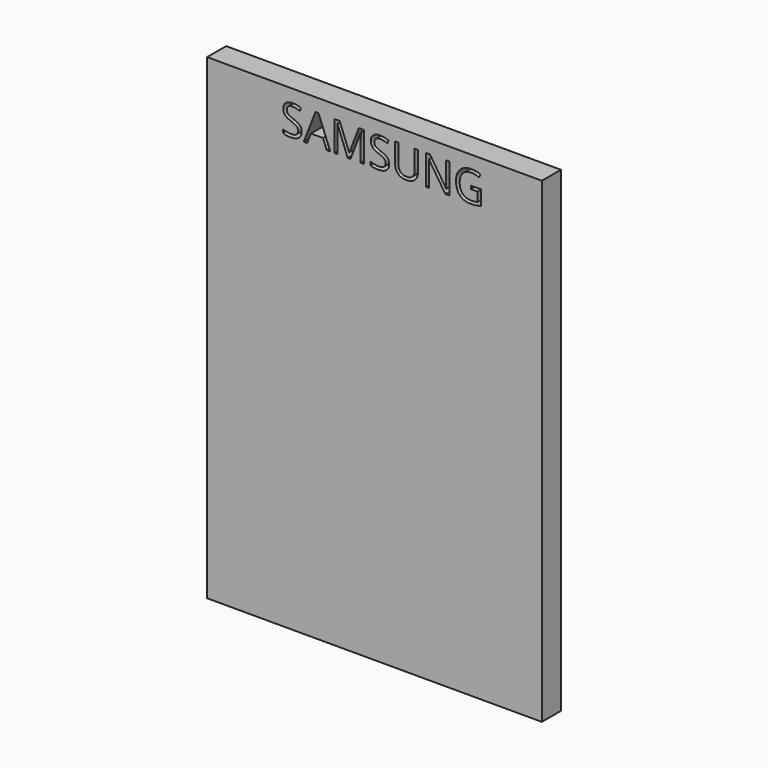
from build123d import *

# Parameters (mm, degrees)
F0_W     = 71.3880112225
F0_H     = 101.6
F1_DEPTH = 5.08


with BuildPart() as f1:
    # F0 (on Front) → F1 (new body)
    with BuildSketch(Plane.XZ):
        with Locations((0.1895986497, 0)):
            Rectangle(F0_W, F0_H)
        with BuildLine():
            add(Edge.make_bspline(
                [(-15.7056208765, 44.3836767437), (-15.3279076541, 43.9723890126), (-15.3279076541, 43.3176860938)],
                knots=[0, 0, 0, 1, 1, 1], degree=2))
            add(Edge.make_bspline(
                [(-15.3279076541, 43.3176860938), (-15.3279076541, 42.4741265637), (-15.9399429681, 42.0012855668)],
                knots=[0, 0, 0, 1, 1, 1], degree=2))
            add(Edge.make_bspline(
                [(-15.9399429681, 42.0012855668), (-16.5519782822, 41.5284445698), (-17.6011816778, 41.5284445698)],
                knots=[0, 0, 0, 1, 1, 1], degree=2))
            add(Edge.make_bspline(
                [(-17.6011816778, 41.5284445698), (-18.7371192207, 41.5284445698), (-19.3498540037, 41.8222215206)],
                knots=[0, 0, 0, 1, 1, 1], degree=2))
            Line((-19.3498540037, 41.8222215206), (-19.3498540037, 42.5384777053))
            add(Edge.make_bspline(
                [(-19.3498540037, 42.5384777053), (-18.955353527, 42.3734030377), (-18.4923050951, 42.2768763254)],
                knots=[0, 0, 0, 1, 1, 1], degree=2))
            add(Edge.make_bspline(
                [(-18.4923050951, 42.2768763254), (-18.0292566632, 42.180349613), (-17.5746018584, 42.180349613)],
                knots=[0, 0, 0, 1, 1, 1], degree=2))
            add(Edge.make_bspline(
                [(-17.5746018584, 42.180349613), (-16.8317658544, 42.180349613), (-16.4554515698, 42.4622355919)],
                knots=[0, 0, 0, 1, 1, 1], degree=2))
            add(Edge.make_bspline(
                [(-16.4554515698, 42.4622355919), (-16.0791372853, 42.7441215709), (-16.0791372853, 43.2477392007)],
                knots=[0, 0, 0, 1, 1, 1], degree=2))
            add(Edge.make_bspline(
                [(-16.0791372853, 43.2477392007), (-16.0791372853, 43.5792874737), (-16.212735851, 43.7912265596)],
                knots=[0, 0, 0, 1, 1, 1], degree=2))
            add(Edge.make_bspline(
                [(-16.212735851, 43.7912265596), (-16.3463344167, 44.0031656455), (-16.6589970286, 44.1829291606)],
                knots=[0, 0, 0, 1, 1, 1], degree=2))
            add(Edge.make_bspline(
                [(-16.6589970286, 44.1829291606), (-16.9716596405, 44.3626926758), (-17.609575305, 44.5893206092)],
                knots=[0, 0, 0, 1, 1, 1], degree=2))
            add(Edge.make_bspline(
                [(-17.609575305, 44.5893206092), (-18.5006987223, 44.9082784415), (-18.8833082272, 45.3454465229)],
                knots=[0, 0, 0, 1, 1, 1], degree=2))
            add(Edge.make_bspline(
                [(-18.8833082272, 45.3454465229), (-19.2659177321, 45.7826146044), (-19.2659177321, 46.4862803484)],
                knots=[0, 0, 0, 1, 1, 1], degree=2))
            add(Edge.make_bspline(
                [(-19.2659177321, 46.4862803484), (-19.2659177321, 47.2249195389), (-18.7112388703, 47.6620876204)],
                knots=[0, 0, 0, 1, 1, 1], degree=2))
            add(Edge.make_bspline(
                [(-18.7112388703, 47.6620876204), (-18.1565600085, 48.0992557019), (-17.2416546476, 48.0992557019)],
                knots=[0, 0, 0, 1, 1, 1], degree=2))
            add(Edge.make_bspline(
                [(-17.2416546476, 48.0992557019), (-16.2889779644, 48.0992557019), (-15.488785508, 47.7495212367)],
                knots=[0, 0, 0, 1, 1, 1], degree=2))
            Line((-15.488785508, 47.7495212367), (-15.7210091929, 47.103211945))
            add(Edge.make_bspline(
                [(-15.7210091929, 47.103211945), (-16.5128080221, 47.434760218), (-17.2598408398, 47.434760218)],
                knots=[0, 0, 0, 1, 1, 1], degree=2))
            add(Edge.make_bspline(
                [(-17.2598408398, 47.434760218), (-17.850192617, 47.434760218), (-18.1824403589, 47.1815524652)],
                knots=[0, 0, 0, 1, 1, 1], degree=2))
            add(Edge.make_bspline(
                [(-18.1824403589, 47.1815524652), (-18.5146881009, 46.9283447124), (-18.5146881009, 46.4778867212)],
                knots=[0, 0, 0, 1, 1, 1], degree=2))
            add(Edge.make_bspline(
                [(-18.5146881009, 46.4778867212), (-18.5146881009, 46.1463384482), (-18.3922810381, 45.9336998934)],
                knots=[0, 0, 0, 1, 1, 1], degree=2))
            add(Edge.make_bspline(
                [(-18.3922810381, 45.9336998934), (-18.2698739752, 45.7210613386), (-17.9788949002, 45.5440956992)],
                knots=[0, 0, 0, 1, 1, 1], degree=2))
            add(Edge.make_bspline(
                [(-17.9788949002, 45.5440956992), (-17.6879158252, 45.3671300598), (-17.0891704208, 45.1530925671)],
                knots=[0, 0, 0, 1, 1, 1], degree=2))
            add(Edge.make_bspline(
                [(-17.0891704208, 45.1530925671), (-16.0833340989, 44.7949644747), (-15.7056208765, 44.3836767437)],
                knots=[0, 0, 0, 1, 1, 1], degree=2))
        make_face(mode=Mode.SUBTRACT)
        Polygon((-9.2327353947, 41.6165776551), (-10.0021512181, 41.6165776551), (-10.7981468609, 43.6492343668), (-13.359602084, 43.6492343668), (-14.1458051617, 41.6165776551), (-14.8984337308, 41.6165776551), (-12.3719519543, 48.0349045603), (-11.7466267305, 48.0349045603), align=None, mode=Mode.SUBTRACT)
        with BuildLine():
            Line((-4.9268046593, 41.6165776551), (-5.5255500637, 41.6165776551))
            Line((-5.5255500637, 41.6165776551), (-7.6939037479, 47.2822759912))
            Line((-7.6939037479, 47.2822759912), (-7.7288771944, 47.2822759912))
            add(Edge.make_bspline(
                [(-7.7288771944, 47.2822759912), (-7.6673239285, 46.6093868801), (-7.6673239285, 45.6818910785)],
                knots=[0, 0, 0, 1, 1, 1], degree=2))
            Line((-7.6673239285, 45.6818910785), (-7.6673239285, 41.6165776551))
            Line((-7.6673239285, 41.6165776551), (-8.3542024182, 41.6165776551))
            Line((-8.3542024182, 41.6165776551), (-8.3542024182, 48.0083247409))
            Line((-8.3542024182, 48.0083247409), (-7.2350521295, 48.0083247409))
            Line((-7.2350521295, 48.0083247409), (-5.210789045, 42.7357279437))
            Line((-5.210789045, 42.7357279437), (-5.1758155985, 42.7357279437))
            Line((-5.1758155985, 42.7357279437), (-3.1347652596, 48.0083247409))
            Line((-3.1347652596, 48.0083247409), (-2.0240085982, 48.0083247409))
            Line((-2.0240085982, 48.0083247409), (-2.0240085982, 41.6165776551))
            Line((-2.0240085982, 41.6165776551), (-2.7668446023, 41.6165776551))
            Line((-2.7668446023, 41.6165776551), (-2.7668446023, 45.7350507172))
            add(Edge.make_bspline(
                [(-2.7668446023, 45.7350507172), (-2.7668446023, 46.4429132747), (-2.7052913364, 47.273882364)],
                knots=[0, 0, 0, 1, 1, 1], degree=2))
            Line((-2.7052913364, 47.273882364), (-2.7402647829, 47.273882364))
            Line((-2.7402647829, 47.273882364), (-4.9268046593, 41.6165776551))
        make_face(mode=Mode.SUBTRACT)
        with BuildLine():
            add(Edge.make_bspline(
                [(2.957609124, 44.3836767437), (3.3353223464, 43.9723890126), (3.3353223464, 43.3176860938)],
                knots=[0, 0, 0, 1, 1, 1], degree=2))
            add(Edge.make_bspline(
                [(3.3353223464, 43.3176860938), (3.3353223464, 42.4741265637), (2.7232870323, 42.0012855668)],
                knots=[0, 0, 0, 1, 1, 1], degree=2))
            add(Edge.make_bspline(
                [(2.7232870323, 42.0012855668), (2.1112517182, 41.5284445698), (1.0620483226, 41.5284445698)],
                knots=[0, 0, 0, 1, 1, 1], degree=2))
            add(Edge.make_bspline(
                [(1.0620483226, 41.5284445698), (-0.0738892203, 41.5284445698), (-0.6866240033, 41.8222215206)],
                knots=[0, 0, 0, 1, 1, 1], degree=2))
            Line((-0.6866240033, 41.8222215206), (-0.6866240033, 42.5384777053))
            add(Edge.make_bspline(
                [(-0.6866240033, 42.5384777053), (-0.2921235266, 42.3734030377), (0.1709249053, 42.2768763254)],
                knots=[0, 0, 0, 1, 1, 1], degree=2))
            add(Edge.make_bspline(
                [(0.1709249053, 42.2768763254), (0.6339733372, 42.180349613), (1.088628142, 42.180349613)],
                knots=[0, 0, 0, 1, 1, 1], degree=2))
            add(Edge.make_bspline(
                [(1.088628142, 42.180349613), (1.8314641461, 42.180349613), (2.2077784306, 42.4622355919)],
                knots=[0, 0, 0, 1, 1, 1], degree=2))
            add(Edge.make_bspline(
                [(2.2077784306, 42.4622355919), (2.5840927151, 42.7441215709), (2.5840927151, 43.2477392007)],
                knots=[0, 0, 0, 1, 1, 1], degree=2))
            add(Edge.make_bspline(
                [(2.5840927151, 43.2477392007), (2.5840927151, 43.5792874737), (2.4504941494, 43.7912265596)],
                knots=[0, 0, 0, 1, 1, 1], degree=2))
            add(Edge.make_bspline(
                [(2.4504941494, 43.7912265596), (2.3168955837, 44.0031656455), (2.0042329719, 44.1829291606)],
                knots=[0, 0, 0, 1, 1, 1], degree=2))
            add(Edge.make_bspline(
                [(2.0042329719, 44.1829291606), (1.69157036, 44.3626926758), (1.0536546955, 44.5893206092)],
                knots=[0, 0, 0, 1, 1, 1], degree=2))
            add(Edge.make_bspline(
                [(1.0536546955, 44.5893206092), (0.1625312782, 44.9082784415), (-0.2200782268, 45.3454465229)],
                knots=[0, 0, 0, 1, 1, 1], degree=2))
            add(Edge.make_bspline(
                [(-0.2200782268, 45.3454465229), (-0.6026877317, 45.7826146044), (-0.6026877317, 46.4862803484)],
                knots=[0, 0, 0, 1, 1, 1], degree=2))
            add(Edge.make_bspline(
                [(-0.6026877317, 46.4862803484), (-0.6026877317, 47.2249195389), (-0.0480088699, 47.6620876204)],
                knots=[0, 0, 0, 1, 1, 1], degree=2))
            add(Edge.make_bspline(
                [(-0.0480088699, 47.6620876204), (0.5066699919, 48.0992557019), (1.4215753529, 48.0992557019)],
                knots=[0, 0, 0, 1, 1, 1], degree=2))
            add(Edge.make_bspline(
                [(1.4215753529, 48.0992557019), (2.374252036, 48.0992557019), (3.1744444924, 47.7495212367)],
                knots=[0, 0, 0, 1, 1, 1], degree=2))
            Line((3.1744444924, 47.7495212367), (2.9422208075, 47.103211945))
            add(Edge.make_bspline(
                [(2.9422208075, 47.103211945), (2.1504219783, 47.434760218), (1.4033891607, 47.434760218)],
                knots=[0, 0, 0, 1, 1, 1], degree=2))
            add(Edge.make_bspline(
                [(1.4033891607, 47.434760218), (0.8130373834, 47.434760218), (0.4807896415, 47.1815524652)],
                knots=[0, 0, 0, 1, 1, 1], degree=2))
            add(Edge.make_bspline(
                [(0.4807896415, 47.1815524652), (0.1485418996, 46.9283447124), (0.1485418996, 46.4778867212)],
                knots=[0, 0, 0, 1, 1, 1], degree=2))
            add(Edge.make_bspline(
                [(0.1485418996, 46.4778867212), (0.1485418996, 46.1463384482), (0.2709489624, 45.9336998934)],
                knots=[0, 0, 0, 1, 1, 1], degree=2))
            add(Edge.make_bspline(
                [(0.2709489624, 45.9336998934), (0.3933560252, 45.7210613386), (0.6843351002, 45.5440956992)],
                knots=[0, 0, 0, 1, 1, 1], degree=2))
            add(Edge.make_bspline(
                [(0.6843351002, 45.5440956992), (0.9753141753, 45.3671300598), (1.5740595797, 45.1530925671)],
                knots=[0, 0, 0, 1, 1, 1], degree=2))
            add(Edge.make_bspline(
                [(1.5740595797, 45.1530925671), (2.5798959016, 44.7949644747), (2.957609124, 44.3836767437)],
                knots=[0, 0, 0, 1, 1, 1], degree=2))
        make_face(mode=Mode.SUBTRACT)
        with BuildLine():
            Line((8.7268288618, 48.0083247409), (9.4696648658, 48.0083247409))
            Line((9.4696648658, 48.0083247409), (9.4696648658, 43.8730644245))
            add(Edge.make_bspline(
                [(9.4696648658, 43.8730644245), (9.4696648658, 42.7790950174), (8.8093661955, 42.1537697936)],
                knots=[0, 0, 0, 1, 1, 1], degree=2))
            add(Edge.make_bspline(
                [(8.8093661955, 42.1537697936), (8.1490675253, 41.5284445698), (6.9949437901, 41.5284445698)],
                knots=[0, 0, 0, 1, 1, 1], degree=2))
            add(Edge.make_bspline(
                [(6.9949437901, 41.5284445698), (5.840820055, 41.5284445698), (5.2091996109, 42.1586660761)],
                knots=[0, 0, 0, 1, 1, 1], degree=2))
            add(Edge.make_bspline(
                [(5.2091996109, 42.1586660761), (4.5775791667, 42.7888875824), (4.5775791667, 43.8898516788)],
                knots=[0, 0, 0, 1, 1, 1], degree=2))
            Line((4.5775791667, 43.8898516788), (4.5775791667, 48.0083247409))
            Line((4.5775791667, 48.0083247409), (5.3218141087, 48.0083247409))
            Line((5.3218141087, 48.0083247409), (5.3218141087, 43.838090978))
            add(Edge.make_bspline(
                [(5.3218141087, 43.838090978), (5.3218141087, 43.0378985216), (5.7589821901, 42.6091240673)],
                knots=[0, 0, 0, 1, 1, 1], degree=2))
            add(Edge.make_bspline(
                [(5.7589821901, 42.6091240673), (6.1961502716, 42.180349613), (7.0439066153, 42.180349613)],
                knots=[0, 0, 0, 1, 1, 1], degree=2))
            add(Edge.make_bspline(
                [(7.0439066153, 42.180349613), (7.8524926988, 42.180349613), (8.2896607803, 42.6112224741)],
                knots=[0, 0, 0, 1, 1, 1], degree=2))
            add(Edge.make_bspline(
                [(8.2896607803, 42.6112224741), (8.7268288618, 43.0420953352), (8.7268288618, 43.8464846051)],
                knots=[0, 0, 0, 1, 1, 1], degree=2))
            Line((8.7268288618, 43.8464846051), (8.7268288618, 48.0083247409))
        make_face(mode=Mode.SUBTRACT)
        with BuildLine():
            Line((16.1537899645, 48.0083247409), (16.1537899645, 41.6165776551))
            Line((16.1537899645, 41.6165776551), (15.3060336209, 41.6165776551))
            Line((15.3060336209, 41.6165776551), (11.8128857826, 46.9801054132))
            Line((11.8128857826, 46.9801054132), (11.7779123361, 46.9801054132))
            add(Edge.make_bspline(
                [(11.7779123361, 46.9801054132), (11.8478592291, 46.0358223572), (11.8478592291, 45.2496192795)],
                knots=[0, 0, 0, 1, 1, 1], degree=2))
            Line((11.8478592291, 45.2496192795), (11.8478592291, 41.6165776551))
            Line((11.8478592291, 41.6165776551), (11.1609807395, 41.6165776551))
            Line((11.1609807395, 41.6165776551), (11.1609807395, 48.0083247409))
            Line((11.1609807395, 48.0083247409), (12.0003434559, 48.0083247409))
            Line((12.0003434559, 48.0083247409), (15.4850976671, 42.6657810506))
            Line((15.4850976671, 42.6657810506), (15.5200711136, 42.6657810506))
            add(Edge.make_bspline(
                [(15.5200711136, 42.6657810506), (15.5116774865, 42.783291831), (15.4809008535, 43.4240053712)],
                knots=[0, 0, 0, 1, 1, 1], degree=2))
            add(Edge.make_bspline(
                [(15.4809008535, 43.4240053712), (15.4501242206, 44.0647189114), (15.4585178477, 44.34030967)],
                knots=[0, 0, 0, 1, 1, 1], degree=2))
            Line((15.4585178477, 44.34030967), (15.4585178477, 48.0083247409))
            Line((15.4585178477, 48.0083247409), (16.1537899645, 48.0083247409))
        make_face(mode=Mode.SUBTRACT)
        with BuildLine():
            Line((20.7227210178, 44.3011394099), (20.7227210178, 44.9656348937))
            Line((20.7227210178, 44.9656348937), (22.8952715156, 44.9656348937))
            Line((22.8952715156, 44.9656348937), (22.8952715156, 41.8571949671))
            add(Edge.make_bspline(
                [(22.8952715156, 41.8571949671), (22.3874570721, 41.6949181753), (21.8628553743, 41.6116813726)],
                knots=[0, 0, 0, 1, 1, 1], degree=2))
            add(Edge.make_bspline(
                [(21.8628553743, 41.6116813726), (21.3382536765, 41.5284445698), (20.6471783733, 41.5284445698)],
                knots=[0, 0, 0, 1, 1, 1], degree=2))
            add(Edge.make_bspline(
                [(20.6471783733, 41.5284445698), (19.1964798117, 41.5284445698), (18.3878937282, 42.3922886989)],
                knots=[0, 0, 0, 1, 1, 1], degree=2))
            add(Edge.make_bspline(
                [(18.3878937282, 42.3922886989), (17.5793076447, 43.2561328279), (17.5793076447, 44.8117517291)],
                knots=[0, 0, 0, 1, 1, 1], degree=2))
            add(Edge.make_bspline(
                [(17.5793076447, 44.8117517291), (17.5793076447, 45.8091944238), (17.9794038728, 46.5590251172)],
                knots=[0, 0, 0, 1, 1, 1], degree=2))
            add(Edge.make_bspline(
                [(17.9794038728, 46.5590251172), (18.379500101, 47.3088558105), (19.1314292012, 47.7040557562)],
                knots=[0, 0, 0, 1, 1, 1], degree=2))
            add(Edge.make_bspline(
                [(19.1314292012, 47.7040557562), (19.8833583013, 48.0992557019), (20.8919924989, 48.0992557019)],
                knots=[0, 0, 0, 1, 1, 1], degree=2))
            add(Edge.make_bspline(
                [(20.8919924989, 48.0992557019), (21.916015013, 48.0992557019), (22.7987448032, 47.7243403552)],
                knots=[0, 0, 0, 1, 1, 1], degree=2))
            Line((22.7987448032, 47.7243403552), (22.5105636038, 47.0682384985))
            add(Edge.make_bspline(
                [(22.5105636038, 47.0682384985), (21.644621068, 47.434760218), (20.8444286117, 47.434760218)],
                knots=[0, 0, 0, 1, 1, 1], degree=2))
            add(Edge.make_bspline(
                [(20.8444286117, 47.434760218), (19.6777144358, 47.434760218), (19.0216125791, 46.7401875701)],
                knots=[0, 0, 0, 1, 1, 1], degree=2))
            add(Edge.make_bspline(
                [(19.0216125791, 46.7401875701), (18.3655107224, 46.0456149223), (18.3655107224, 44.8117517291)],
                knots=[0, 0, 0, 1, 1, 1], degree=2))
            add(Edge.make_bspline(
                [(18.3655107224, 44.8117517291), (18.3655107224, 43.5177342079), (18.9971311665, 42.8490419104)],
                knots=[0, 0, 0, 1, 1, 1], degree=2))
            add(Edge.make_bspline(
                [(18.9971311665, 42.8490419104), (19.6287516107, 42.180349613), (20.8528222388, 42.180349613)],
                knots=[0, 0, 0, 1, 1, 1], degree=2))
            add(Edge.make_bspline(
                [(20.8528222388, 42.180349613), (21.5173177227, 42.180349613), (22.1510365736, 42.3342327776)],
                knots=[0, 0, 0, 1, 1, 1], degree=2))
            Line((22.1510365736, 42.3342327776), (22.1510365736, 44.3011394099))
            Line((22.1510365736, 44.3011394099), (20.7227210178, 44.3011394099))
        make_face(mode=Mode.SUBTRACT)
    extrude(amount=F1_DEPTH)


solid = f1.part
